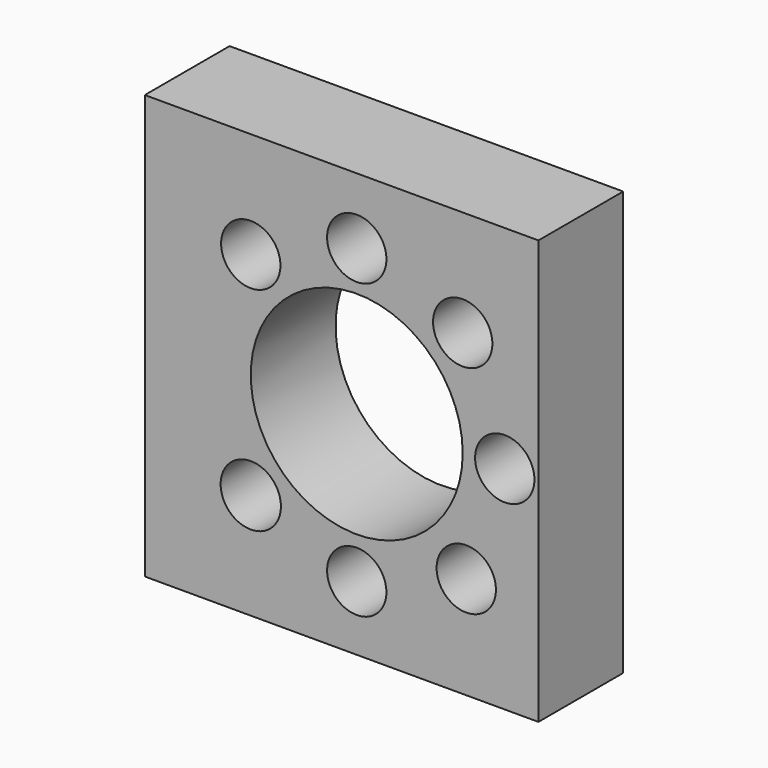
from build123d import *

# Parameters (mm, degrees)
F0_R     = 1.806666
F0_R_2   = 1.778
F0_R_3   = 6.35
F1_DEPTH = 6.35


with BuildPart() as f1:
    # F0 (on Front) → F1 (new body)
    with BuildSketch(Plane.XZ):
        Polygon((10.647724, 12.7), (-12.7, 12.7), (-12.7, -12.7), (10.647724, -12.7), (10.886472, -12.7), (10.886472, 12.7), align=None)
        with Locations((-6.35, -6.35)):
            Circle(F0_R, mode=Mode.SUBTRACT)
        with Locations((0, -8.825461)):
            Circle(F0_R_2, mode=Mode.SUBTRACT)
        with Locations((6.562257, -6.562257)):
            Circle(F0_R_2, mode=Mode.SUBTRACT)
        Circle(F0_R_3, mode=Mode.SUBTRACT)
        with Locations((8.869724, 0)):
            Circle(F0_R_2, mode=Mode.SUBTRACT)
        with Locations((-6.35, 6.35)):
            Circle(F0_R_2, mode=Mode.SUBTRACT)
        with Locations((6.35, 6.35)):
            Circle(F0_R_2, mode=Mode.SUBTRACT)
        with Locations((0, 8.742251)):
            Circle(F0_R_2, mode=Mode.SUBTRACT)
    extrude(amount=F1_DEPTH)


solid = f1.part
